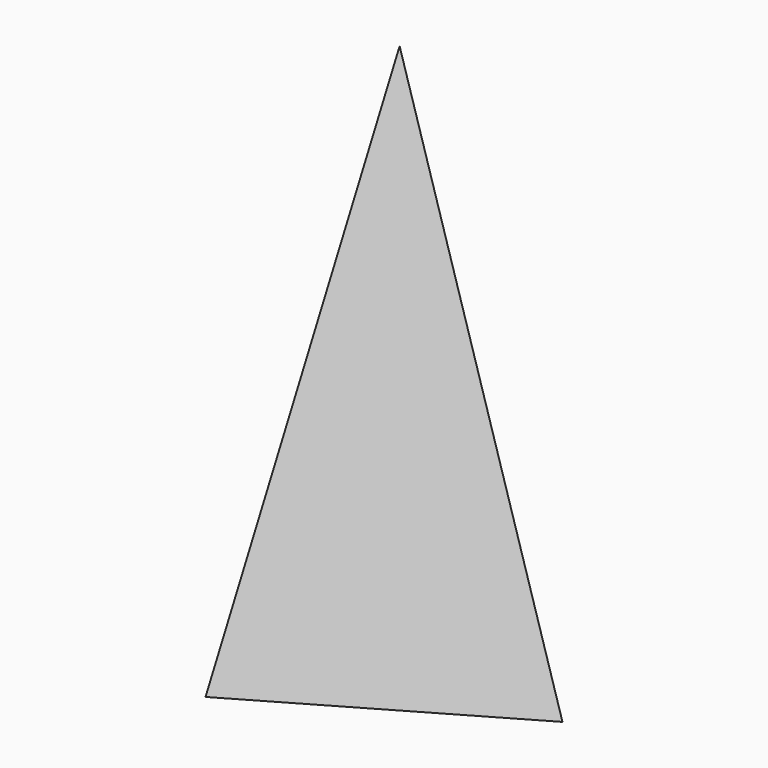
from build123d import *


with BuildPart() as f3:
    # F0 (on Top) → F3 section 0
    with BuildSketch(Plane.XY, mode=Mode.PRIVATE) as f3_s0:
        Polygon((76.265924, 0.058101), (-38.183279, 66.019177), (-38.082645, -66.077279), align=None)
    loft([f3_s0.sketch, Vertex(0, 0, 254)])


solid = f3.part
